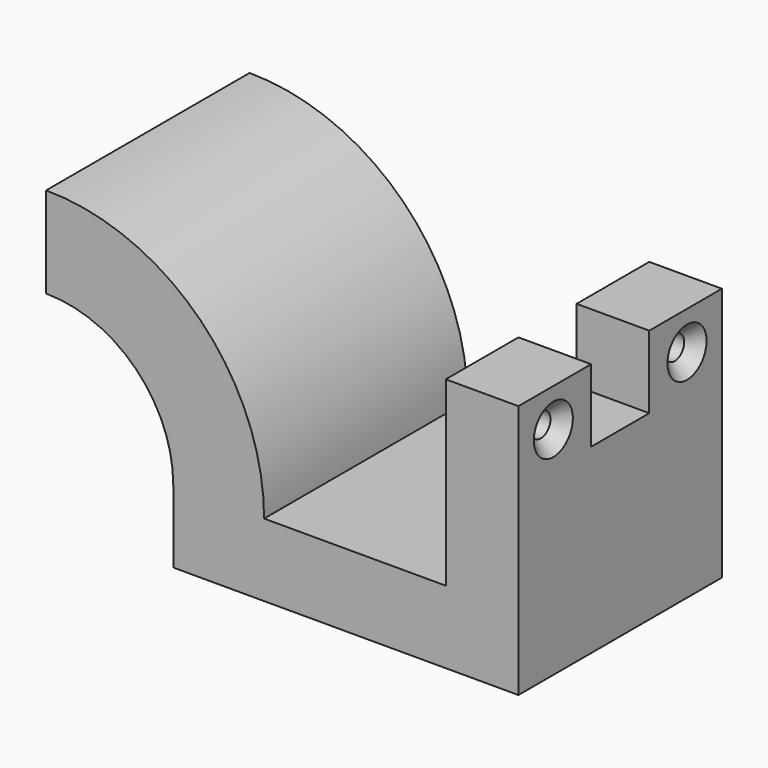
from build123d import *

# Parameters (mm, degrees)
F1_DEPTH       = 35
F3_DEPTH       = 10
F4_D           = 3.3
F4_DEPTH       = 13.5
F4_CSINK_D     = 6.72
F4_CSINK_ANGLE = 90
F4_TIP         = 0.9914200214


with BuildPart() as f1:
    # F0 (on Front) → F1 (new body)
    with BuildSketch(Plane.XZ):
        with BuildLine():
            Line((-36.7157287525, 0), (0, 0))
            Line((0, 0), (0, 10))
            Line((0, 10), (-35, 10))
            ThreePointArc((-35, 10), (-35.4320432104, 4.9269406382), (-36.7157287525, 0))
        make_face()
        with BuildLine():
            Line((-47.5, 0), (-36.7157287525, 0))
            ThreePointArc((-36.7157287525, 0), (-35.4320432104, 4.9269406382), (-35, 10))
            Line((-35, 10), (-47.5, 10))
            Line((-47.5, 10), (-47.5, 0))
        make_face()
        with BuildLine():
            ThreePointArc((-35, 10), (-43.7867965644, 31.2132034356), (-65, 40))
            Line((-65, 40), (-65, 27.5))
            ThreePointArc((-65, 27.5), (-52.6256313292, 22.3743686708), (-47.5, 10))
            Line((-47.5, 10), (-35, 10))
        make_face()
    extrude(amount=F1_DEPTH)

    # F2 (on Right) → F3 (join)
    with BuildSketch(Plane.YZ):
        Polygon((-35, 0), (0, 0), (0, 35), (-12.5, 35), (-12.5, 25), (-22.5, 25), (-22.5, 35), (-35, 35), align=None)
    extrude(amount=-F3_DEPTH)

    # F4
    with Locations(Plane.YZ):
        with Locations((-29, 29.7529604286), (-6, 29.7529604286)):
            CounterSinkHole(F4_D / 2, F4_CSINK_D / 2, depth=F4_DEPTH, counter_sink_angle=F4_CSINK_ANGLE)
            with Locations((0, 0, -(F4_DEPTH + F4_TIP / 2))):  # 118° drill point
                Cone(0, F4_D / 2, F4_TIP, mode=Mode.SUBTRACT)


solid = f1.part
